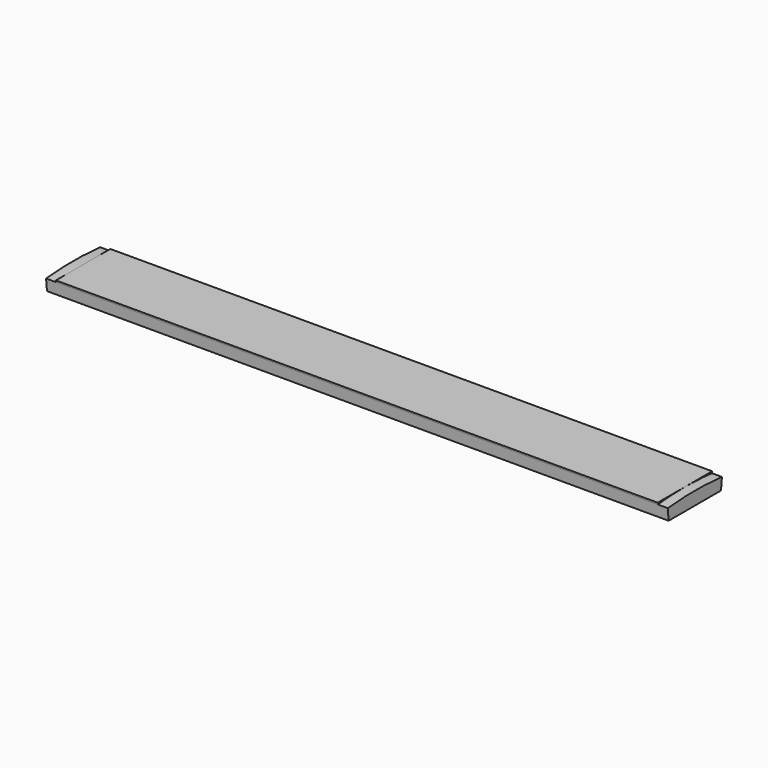
from build123d import *

# Parameters (mm, degrees)
F1_DEPTH = 1193.8
F2_DEPTH = 1155.7


with BuildPart() as f1:
    # F0 (on Right) → F1 (new body, symmetric)
    with BuildSketch(Plane.YZ):
        with BuildLine():
            Line((125.7095026749, 1276.35), (130.0834477884, 1320.759410003))
            ThreePointArc((130.0834477884, 1320.759410003), (65.1201645529, 1325.5513896747), (1.1399e-06, 1327.15))
            ThreePointArc((1.1399e-06, 1327.15), (-65.1201634144, 1325.5513897307), (-130.0834477884, 1320.759410003))
            Line((-130.0834477884, 1320.759410003), (-125.7095026749, 1276.35))
            Line((-125.7095026749, 1276.35), (125.7095026749, 1276.35))
        make_face()
    extrude(amount=F1_DEPTH, both=True)

    # F0 (on Right) → F2 (join, symmetric)
    with BuildSketch(Plane.YZ):
        with BuildLine():
            Line((-130.7128659655, 1327.15), (-130.0834477884, 1320.759410003))
            ThreePointArc((-130.0834477884, 1320.759410003), (-65.1201634144, 1325.5513897307), (1.1399e-06, 1327.15))
            Line((1.1399e-06, 1327.15), (-130.7128659655, 1327.15))
        make_face()
        with BuildLine():
            ThreePointArc((1.1399e-06, 1327.15), (65.1201645529, 1325.5513896747), (130.0834477884, 1320.759410003))
            Line((130.0834477884, 1320.759410003), (130.7128659655, 1327.15))
            Line((130.7128659655, 1327.15), (1.1399e-06, 1327.15))
        make_face()
    extrude(amount=F2_DEPTH, both=True)


solid = f1.part
